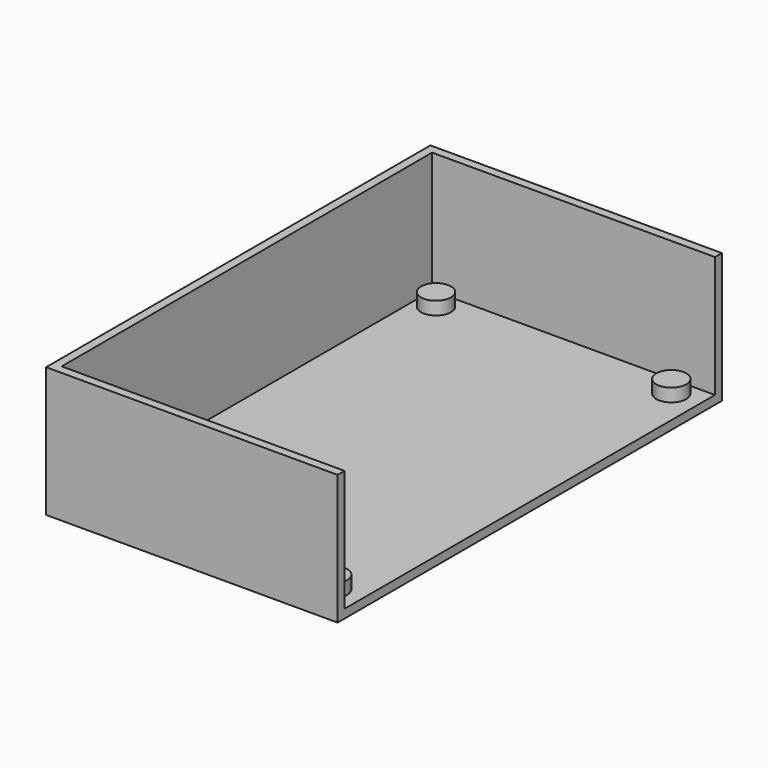
from build123d import *

# Parameters (mm, degrees)
SKETCH_W     = 67.25
SKETCH_H     = 110.8
PAD_DEPTH    = 30
THICKNESS_T  = -2
SKETCH001_R  = 3.45
PAD001_DEPTH = 3


with BuildPart() as part:
    # Sketch → Pad (new body)
    with BuildSketch(Plane.XY):
        with Locations((33.625, 55.4)):
            Rectangle(SKETCH_W, SKETCH_H)
    extrude(amount=PAD_DEPTH)

    # Thickness
    thickness_openings = [part.faces().sort_by_distance(p)[0] for p in [
        (33.625, 55.4, 30),
        (67.25, 55.4, 15),
    ]]
    offset(amount=THICKNESS_T, openings=thickness_openings)

    # Sketch001 (on Face9 of Thickness) → Pad001 (join)
    with BuildSketch(Plane.XY.offset(2)):
        with Locations((6.497925, 104.302401)):
            Circle(SKETCH001_R)
        with Locations((60.767925, 104.302401)):
            Circle(SKETCH001_R)
        with Locations((60.767925, 6.542401)):
            Circle(SKETCH001_R)
        with Locations((6.497925, 6.542401)):
            Circle(SKETCH001_R)
    extrude(amount=PAD001_DEPTH)


solid = part.part
